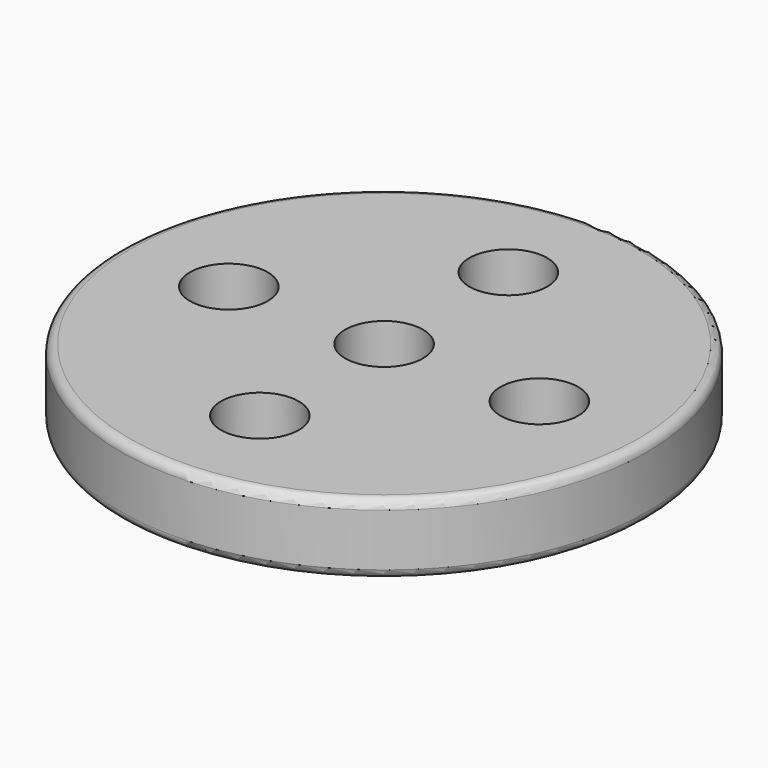
from build123d import *

# Parameters (mm, degrees)
F0_R     = 7.493
F1_DEPTH = 2
F2_R     = 1.1049
F3_DEPTH = 25.4
F4_R     = 0.254


with BuildPart() as f1:
    # F0 (on Top) → F1 (new body)
    with BuildSketch(Plane.XY):
        Circle(F0_R)
    extrude(amount=F1_DEPTH)

    # F2 (on face) → F3 (cut)
    with BuildSketch(Plane.XY.offset(2)):
        with Locations((-4.407408, 0)):
            Circle(F2_R)
        Circle(F2_R)
        with Locations((0, 4.407408)):
            Circle(F2_R)
        with Locations((4.407408, 0)):
            Circle(F2_R)
        with Locations((0, -4.407408)):
            Circle(F2_R)
    extrude(amount=-F3_DEPTH, mode=Mode.SUBTRACT)

    # F4
    f4_edges = [f1.edges().sort_by_distance(p)[0] for p in [
        (-7.493, 0, 2),
        (-7.493, 0, 0),
    ]]
    fillet(f4_edges, radius=F4_R)


solid = f1.part
